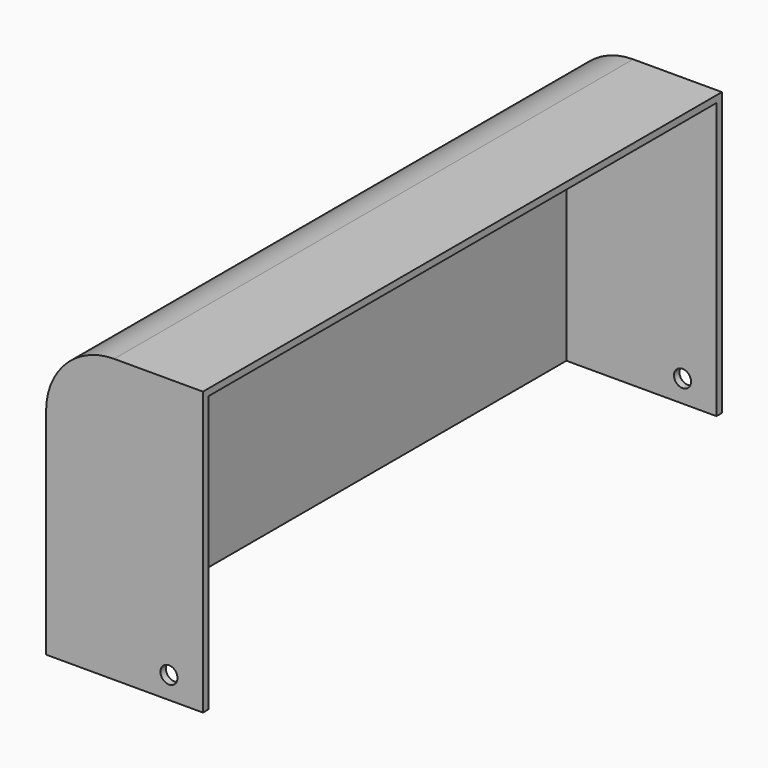
from build123d import *

# Parameters (mm, degrees)
F1_DEPTH = 121
F2_T     = -2.54
F4_D     = 6.35


with BuildPart() as f1:
    # F0 (on Front) → F1 (new body, symmetric)
    with BuildSketch(Plane.XZ):
        with BuildLine():
            Line((30.46076, 60.820436), (-2.648024, 60.820436))
            ThreePointArc((-2.648024, 60.820436), (-20.608536, 53.380948), (-28.048024, 35.420436))
            Line((-28.048024, 35.420436), (-28.048024, -44.579564))
            Line((-28.048024, -44.579564), (30.46076, -44.579564))
            Line((30.46076, -44.579564), (30.46076, 60.820436))
        make_face()
    extrude(amount=F1_DEPTH, both=True)

    # F2
    f2_openings = [f1.faces().sort_by_distance(p)[0] for p in [
        (30.46076, 0, 8.120436),
        (1.206368, 0, -44.579564),
    ]]
    offset(amount=F2_T, openings=f2_openings)

    # F4 (through all)
    with Locations(Plane.XZ.offset(121)):
        with Locations((17.797152, -36.322009)):
            Hole(F4_D / 2)


solid = f1.part
